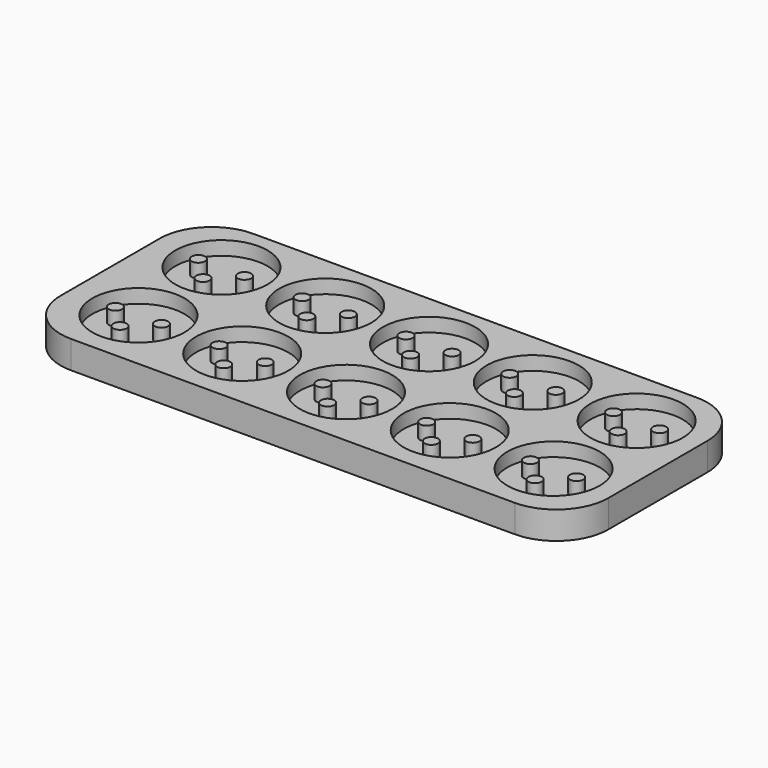
from build123d import *

# Parameters (mm, degrees)
F0_W     = 95
F0_H     = 39.5
F1_DEPTH = 4.8
F2_R     = 8
F2_R_2   = 1.15
F3_DEPTH = 2.4
F4_R     = 9


with BuildPart() as f1:
    # F0 (on Top) → F1 (new body)
    with BuildSketch(Plane.XY):
        with Locations((35.675943, 8.646622)):
            Rectangle(F0_W, F0_H)
    extrude(amount=F1_DEPTH)

    # F2 (on face) → F3 (cut)
    with BuildSketch(Plane.XY.offset(4.8)):
        with Locations((0, 18)):
            Circle(F2_R)
        with Locations((0, 14)):
            Circle(F2_R_2, mode=Mode.SUBTRACT)
        with Locations((-4, 18)):
            Circle(F2_R_2, mode=Mode.SUBTRACT)
        with Locations((4, 18)):
            Circle(F2_R_2, mode=Mode.SUBTRACT)
        with Locations((18, 18)):
            Circle(F2_R)
        with Locations((18, 14)):
            Circle(F2_R_2, mode=Mode.SUBTRACT)
        with Locations((14, 18)):
            Circle(F2_R_2, mode=Mode.SUBTRACT)
        with Locations((22, 18)):
            Circle(F2_R_2, mode=Mode.SUBTRACT)
        with Locations((36, 18)):
            Circle(F2_R)
        with Locations((32, 18)):
            Circle(F2_R_2, mode=Mode.SUBTRACT)
        with Locations((36, 14)):
            Circle(F2_R_2, mode=Mode.SUBTRACT)
        with Locations((40, 18)):
            Circle(F2_R_2, mode=Mode.SUBTRACT)
        with Locations((54, 18)):
            Circle(F2_R)
        with Locations((54, 14)):
            Circle(F2_R_2, mode=Mode.SUBTRACT)
        with Locations((50, 18)):
            Circle(F2_R_2, mode=Mode.SUBTRACT)
        with Locations((58, 18)):
            Circle(F2_R_2, mode=Mode.SUBTRACT)
        with Locations((72, 18)):
            Circle(F2_R)
        with Locations((68, 18)):
            Circle(F2_R_2, mode=Mode.SUBTRACT)
        with Locations((72, 14)):
            Circle(F2_R_2, mode=Mode.SUBTRACT)
        with Locations((76, 18)):
            Circle(F2_R_2, mode=Mode.SUBTRACT)
        with Locations((72, 0)):
            Circle(F2_R)
        with Locations((72, -4)):
            Circle(F2_R_2, mode=Mode.SUBTRACT)
        with Locations((68, 0)):
            Circle(F2_R_2, mode=Mode.SUBTRACT)
        with Locations((76, 0)):
            Circle(F2_R_2, mode=Mode.SUBTRACT)
        with Locations((54, 0)):
            Circle(F2_R)
        with Locations((54, -4)):
            Circle(F2_R_2, mode=Mode.SUBTRACT)
        with Locations((50, 0)):
            Circle(F2_R_2, mode=Mode.SUBTRACT)
        with Locations((58, 0)):
            Circle(F2_R_2, mode=Mode.SUBTRACT)
        with Locations((36, 0)):
            Circle(F2_R)
        with Locations((32, 0)):
            Circle(F2_R_2, mode=Mode.SUBTRACT)
        with Locations((36, -4)):
            Circle(F2_R_2, mode=Mode.SUBTRACT)
        with Locations((40, 0)):
            Circle(F2_R_2, mode=Mode.SUBTRACT)
        with Locations((18, 0)):
            Circle(F2_R)
        with Locations((18, -4)):
            Circle(F2_R_2, mode=Mode.SUBTRACT)
        with Locations((14, 0)):
            Circle(F2_R_2, mode=Mode.SUBTRACT)
        with Locations((22, 0)):
            Circle(F2_R_2, mode=Mode.SUBTRACT)
        Circle(F2_R)
        with Locations((0, -4)):
            Circle(F2_R_2, mode=Mode.SUBTRACT)
        with Locations((-4, 0)):
            Circle(F2_R_2, mode=Mode.SUBTRACT)
        with Locations((4, 0)):
            Circle(F2_R_2, mode=Mode.SUBTRACT)
    extrude(amount=-F3_DEPTH, mode=Mode.SUBTRACT)

    # F4
    f4_edges = [f1.edges().sort_by_distance(p)[0] for p in [
        (-11.824057, -11.103378, 2.4),
        (-11.824057, 28.396622, 2.4),
        (83.175943, -11.103378, 2.4),
        (83.175943, 28.396622, 2.4),
    ]]
    fillet(f4_edges, radius=F4_R)


solid = f1.part
